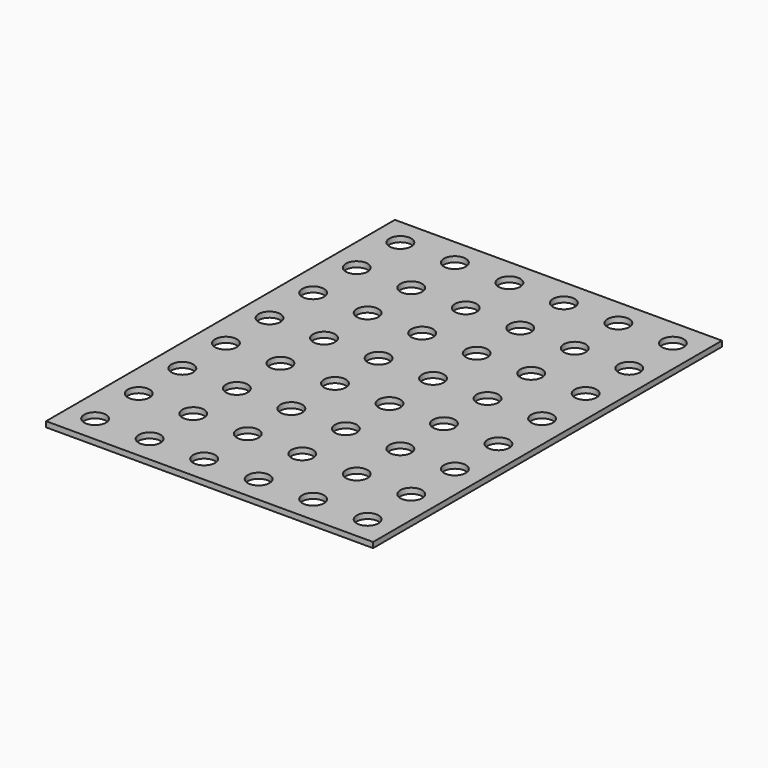
from build123d import *

# Parameters (mm, degrees)
F0_W     = 480
F0_H     = 640
F0_R     = 16
F1_DEPTH = 8


with BuildPart() as f1:
    # F0 (on Top) → F1 (new body)
    with BuildSketch(Plane.XY):
        with Locations((240, -320)):
            Rectangle(F0_W, F0_H)
        with Locations((40, -600)):
            Circle(F0_R, mode=Mode.SUBTRACT)
        with Locations((40, -520)):
            Circle(F0_R, mode=Mode.SUBTRACT)
        with Locations((120, -600)):
            Circle(F0_R, mode=Mode.SUBTRACT)
        with Locations((200, -600)):
            Circle(F0_R, mode=Mode.SUBTRACT)
        with Locations((120, -520)):
            Circle(F0_R, mode=Mode.SUBTRACT)
        with Locations((200, -520)):
            Circle(F0_R, mode=Mode.SUBTRACT)
        with Locations((40, -440)):
            Circle(F0_R, mode=Mode.SUBTRACT)
        with Locations((40, -360)):
            Circle(F0_R, mode=Mode.SUBTRACT)
        with Locations((120, -440)):
            Circle(F0_R, mode=Mode.SUBTRACT)
        with Locations((200, -440)):
            Circle(F0_R, mode=Mode.SUBTRACT)
        with Locations((120, -360)):
            Circle(F0_R, mode=Mode.SUBTRACT)
        with Locations((200, -360)):
            Circle(F0_R, mode=Mode.SUBTRACT)
        with Locations((280, -600)):
            Circle(F0_R, mode=Mode.SUBTRACT)
        with Locations((280, -520)):
            Circle(F0_R, mode=Mode.SUBTRACT)
        with Locations((360, -600)):
            Circle(F0_R, mode=Mode.SUBTRACT)
        with Locations((440, -600)):
            Circle(F0_R, mode=Mode.SUBTRACT)
        with Locations((360, -520)):
            Circle(F0_R, mode=Mode.SUBTRACT)
        with Locations((440, -520)):
            Circle(F0_R, mode=Mode.SUBTRACT)
        with Locations((280, -440)):
            Circle(F0_R, mode=Mode.SUBTRACT)
        with Locations((280, -360)):
            Circle(F0_R, mode=Mode.SUBTRACT)
        with Locations((360, -440)):
            Circle(F0_R, mode=Mode.SUBTRACT)
        with Locations((440, -440)):
            Circle(F0_R, mode=Mode.SUBTRACT)
        with Locations((360, -360)):
            Circle(F0_R, mode=Mode.SUBTRACT)
        with Locations((440, -360)):
            Circle(F0_R, mode=Mode.SUBTRACT)
        with Locations((40, -280)):
            Circle(F0_R, mode=Mode.SUBTRACT)
        with Locations((40, -200)):
            Circle(F0_R, mode=Mode.SUBTRACT)
        with Locations((120, -280)):
            Circle(F0_R, mode=Mode.SUBTRACT)
        with Locations((200, -280)):
            Circle(F0_R, mode=Mode.SUBTRACT)
        with Locations((120, -200)):
            Circle(F0_R, mode=Mode.SUBTRACT)
        with Locations((200, -200)):
            Circle(F0_R, mode=Mode.SUBTRACT)
        with Locations((40, -120)):
            Circle(F0_R, mode=Mode.SUBTRACT)
        with Locations((40, -40)):
            Circle(F0_R, mode=Mode.SUBTRACT)
        with Locations((120, -120)):
            Circle(F0_R, mode=Mode.SUBTRACT)
        with Locations((200, -120)):
            Circle(F0_R, mode=Mode.SUBTRACT)
        with Locations((120, -40)):
            Circle(F0_R, mode=Mode.SUBTRACT)
        with Locations((200, -40)):
            Circle(F0_R, mode=Mode.SUBTRACT)
        with Locations((280, -280)):
            Circle(F0_R, mode=Mode.SUBTRACT)
        with Locations((280, -200)):
            Circle(F0_R, mode=Mode.SUBTRACT)
        with Locations((360, -280)):
            Circle(F0_R, mode=Mode.SUBTRACT)
        with Locations((440, -280)):
            Circle(F0_R, mode=Mode.SUBTRACT)
        with Locations((360, -200)):
            Circle(F0_R, mode=Mode.SUBTRACT)
        with Locations((440, -200)):
            Circle(F0_R, mode=Mode.SUBTRACT)
        with Locations((280, -120)):
            Circle(F0_R, mode=Mode.SUBTRACT)
        with Locations((280, -40)):
            Circle(F0_R, mode=Mode.SUBTRACT)
        with Locations((360, -120)):
            Circle(F0_R, mode=Mode.SUBTRACT)
        with Locations((440, -120)):
            Circle(F0_R, mode=Mode.SUBTRACT)
        with Locations((360, -40)):
            Circle(F0_R, mode=Mode.SUBTRACT)
        with Locations((440, -40)):
            Circle(F0_R, mode=Mode.SUBTRACT)
    extrude(amount=F1_DEPTH)


solid = f1.part
